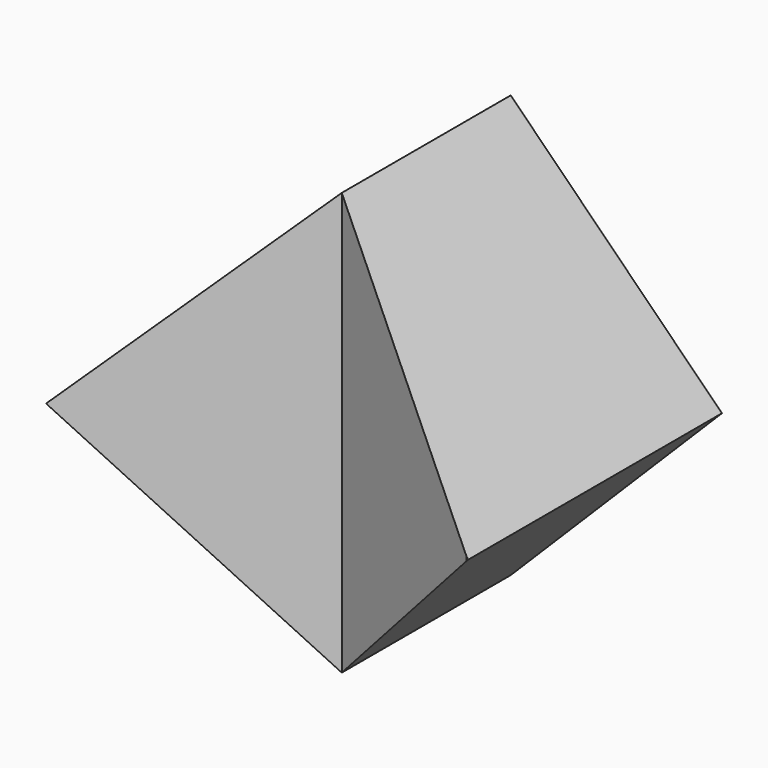
from build123d import *

# Parameters (mm, degrees)
F2_DEPTH = 30
F6_DEPTH = 61


with BuildPart() as f2:
    # F1 (on Front) → F2 (new body)
    with BuildSketch(Plane.XZ):
        Polygon((20, 0), (20, 40), (0, 20), align=None)
        Polygon((40, 20), (20, 40), (20, 0), align=None)
    extrude(amount=-F2_DEPTH)

    # F5 (on face) → F6 (cut)
    with BuildSketch(Plane.XY):
        Polygon((20, 10), (0, 0), (39.821261, 0), align=None)
    extrude(amount=F6_DEPTH, mode=Mode.SUBTRACT)


solid = f2.part
